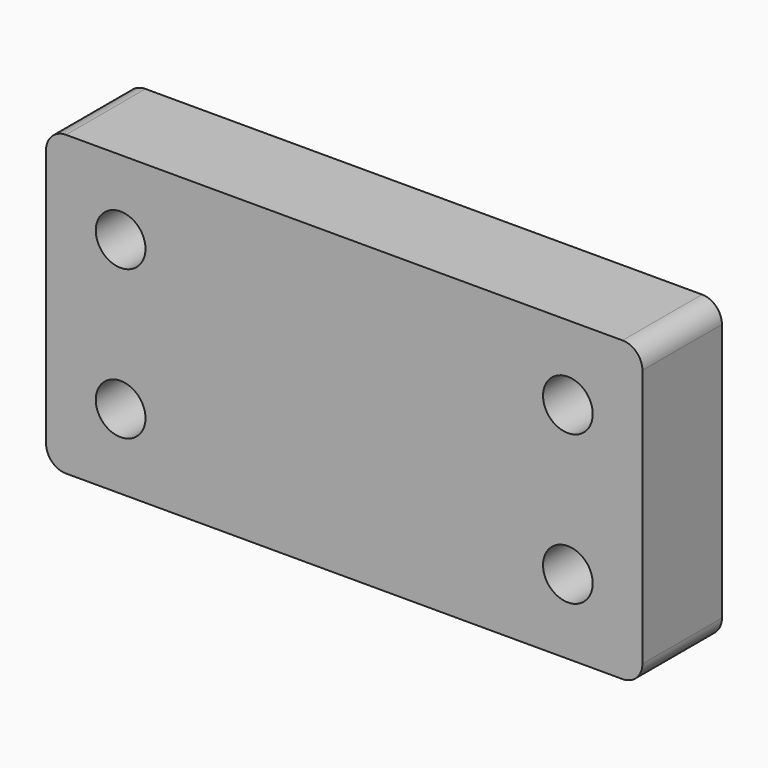
from build123d import *

# Parameters (mm, degrees)
F0_W     = 152.4
F0_H     = 76.2
F0_R     = 6.35
F1_DEPTH = 25.4
F2_R     = 5.08


with BuildPart() as f1:
    # F0 (on Front) → F1 (new body)
    with BuildSketch(Plane.XZ):
        Rectangle(F0_W, F0_H)
        with Locations((-57.15, -19.05)):
            Circle(F0_R, mode=Mode.SUBTRACT)
        with Locations((57.15, -19.05)):
            Circle(F0_R, mode=Mode.SUBTRACT)
        with Locations((-57.15, 19.05)):
            Circle(F0_R, mode=Mode.SUBTRACT)
        with Locations((57.15, 19.05)):
            Circle(F0_R, mode=Mode.SUBTRACT)
    extrude(amount=F1_DEPTH)

    # F2
    f2_edges = [f1.edges().sort_by_distance(p)[0] for p in [
        (76.2, -12.7, 38.1),
        (-76.2, -12.7, -38.1),
        (-76.2, -12.7, 38.1),
        (76.2, -12.7, -38.1),
    ]]
    fillet(f2_edges, radius=F2_R)


solid = f1.part
